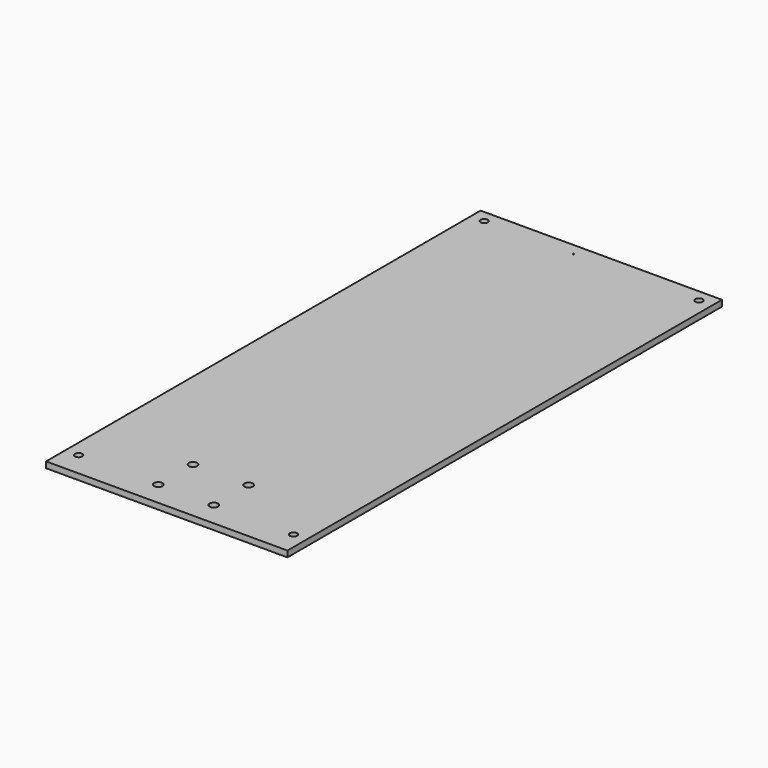
from build123d import *

# Parameters (mm, degrees)
F0_W     = 200
F0_H     = 450
F0_R     = 3
F1_DEPTH = 5
F3_DEPTH = 5.001
F5_DEPTH = 25


with BuildPart() as f1:
    # F0 (on Top) → F1 (new body)
    with BuildSketch(Plane.XY):
        Rectangle(F0_W, F0_H)
        with Locations((-89, -205)):
            Circle(F0_R, mode=Mode.SUBTRACT)
        with Locations((89, -205)):
            Circle(F0_R, mode=Mode.SUBTRACT)
        with Locations((-89, 215)):
            Circle(F0_R, mode=Mode.SUBTRACT)
        with Locations((89, 215)):
            Circle(F0_R, mode=Mode.SUBTRACT)
    extrude(amount=F1_DEPTH)

    # F2 (on face) → F3 (cut, through all)
    with BuildSketch(Plane.XY.offset(5)):
        with BuildLine():
            Line((-23, -169), (-19.5, -169))
            ThreePointArc((-19.5, -169), (-25.474874, -166.525126), (-23, -172.5))
            Line((-23, -172.5), (-23, -169))
        make_face()
        with BuildLine():
            ThreePointArc((-23, -172.5), (-20.525126, -171.474874), (-19.5, -169))
            Line((-19.5, -169), (-23, -169))
            Line((-23, -169), (-23, -172.5))
        make_face()
        with BuildLine():
            Line((23, -169), (23, -172.5))
            ThreePointArc((23, -172.5), (25.474874, -171.474874), (26.5, -169))
            ThreePointArc((26.5, -169), (23, -165.5), (19.5, -169))
            Line((19.5, -169), (23, -169))
        make_face()
        with BuildLine():
            ThreePointArc((19.5, -169), (20.525126, -171.474874), (23, -172.5))
            Line((23, -172.5), (23, -169))
            Line((23, -169), (19.5, -169))
        make_face()
        with BuildLine():
            ThreePointArc((23, -201.5), (20.525126, -202.525126), (19.5, -205))
            Line((19.5, -205), (23, -205))
            Line((23, -205), (23, -201.5))
        make_face()
        with BuildLine():
            ThreePointArc((-19.5, -205), (-20.525126, -202.525126), (-23, -201.5))
            ThreePointArc((-23, -201.5), (-25.474874, -207.474874), (-19.5, -205))
        make_face()
        with BuildLine():
            Line((23, -205), (19.5, -205))
            ThreePointArc((19.5, -205), (23, -208.5), (26.5, -205))
            ThreePointArc((26.5, -205), (25.474874, -202.525126), (23, -201.5))
            Line((23, -201.5), (23, -205))
        make_face()
    extrude(amount=-F3_DEPTH, mode=Mode.SUBTRACT)

    # F4 (on face) → F5 (cut)
    with BuildSketch(Plane.XY.offset(5)):
        with BuildLine():
            ThreePointArc((-15, 215.5), (-15.353553, 214.646447), (-14.5, 215))
            ThreePointArc((-14.5, 215), (-14.646447, 215.353553), (-15, 215.5))
        make_face()
    extrude(amount=-F5_DEPTH, mode=Mode.SUBTRACT)


solid = f1.part
